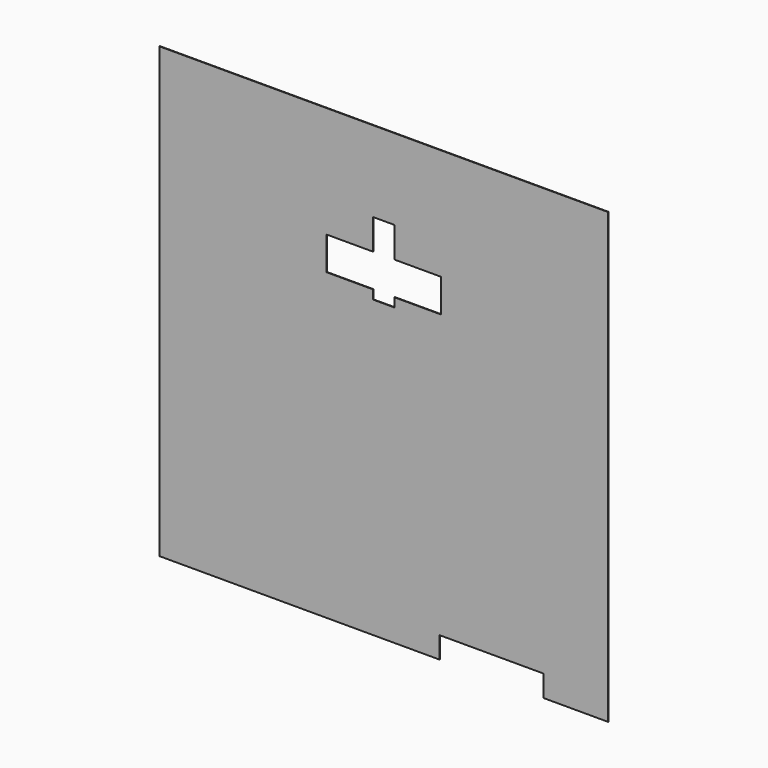
from build123d import *

# Parameters (mm, degrees)
F1_DEPTH = 3


with BuildPart() as f1:
    # F0 (on Front) → F1 (new body)
    with BuildSketch(Plane.XZ):
        Polygon((1250, -1250), (1250, 1250), (-1250, 1250), (-1250, -1250), (310, -1250), (310, -1130), (890, -1130), (890, -1250), align=None)
        Polygon((-320, 445), (-320, 630), (-60, 630), (-60, 800), (60, 800), (60, 630), (320, 630), (320, 445), (60, 445), (60, 395), (-60, 395), (-60, 445), align=None, mode=Mode.SUBTRACT)
    extrude(amount=F1_DEPTH)


solid = f1.part
